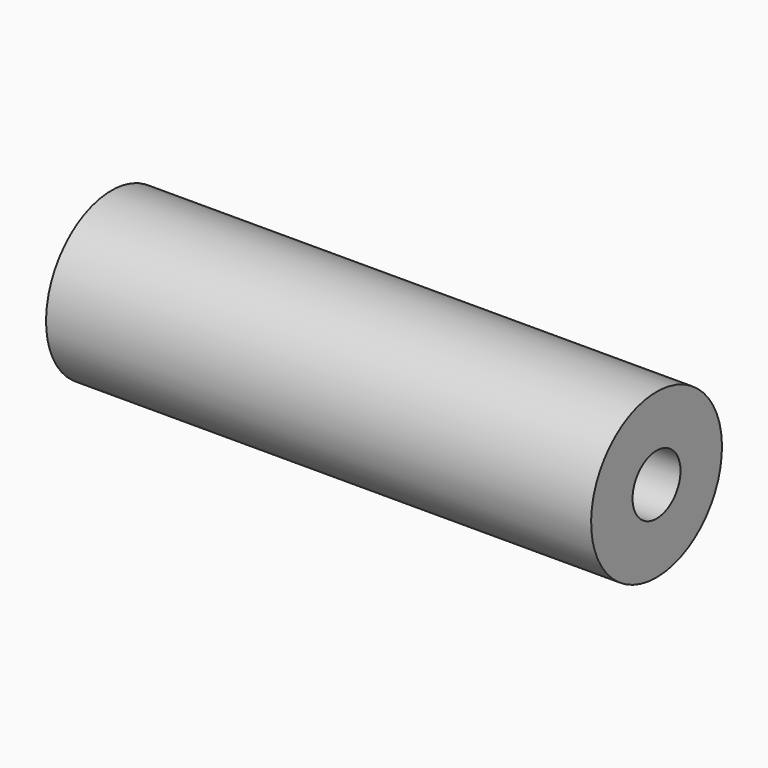
from build123d import *

# Parameters (mm, degrees)
OBJ1_R     = 1.1
OBJ1_DEPTH = 20
OBJ2     = 3
OBJ3 = 20


with BuildPart() as obj1:
    # obj1 → obj1 (new body)
    with BuildSketch(Plane(origin=(34.9, -1, 43), x_dir=(0, 0, -1), z_dir=(1, 0, 0))):
        Circle(OBJ1_R)
    extrude(amount=OBJ1_DEPTH)


with BuildPart() as hinge_left:
    with BuildSketch(Plane(origin=(34.9, -1, 43), x_dir=(0, 0, -1), z_dir=(1, 0, 0))):
        Circle(OBJ2)
    extrude(amount=OBJ3)

    # hinge_left: cut obj1
    add(obj1.part, mode=Mode.SUBTRACT)


solid = hinge_left.part
